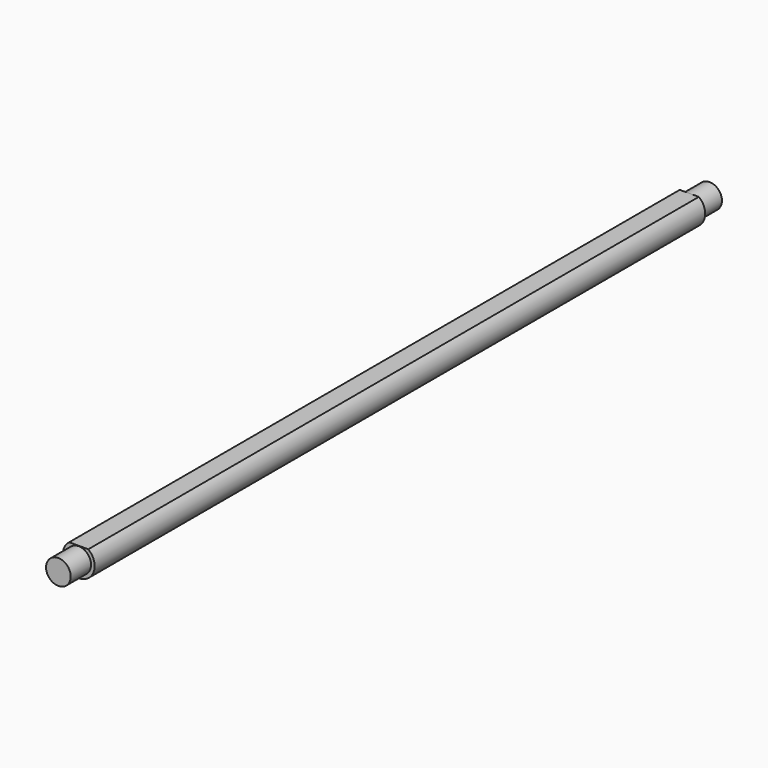
from build123d import *

# Parameters (mm, degrees)
F1_DEPTH = 120
F3_R     = 3.875
F4_DEPTH = 8
F2_R     = 3.875
F5_DEPTH = 8


with BuildPart() as f1:
    # F0 (on Front) → F1 (new body, symmetric)
    with BuildSketch(Plane.XZ):
        with BuildLine():
            Line((3, 4), (-3, 4))
            ThreePointArc((-3, 4), (0, -5), (3, 4))
        make_face()
    extrude(amount=F1_DEPTH, both=True)

    # F3 (on face) → F4 (join)
    with BuildSketch(Plane.XZ.offset(120)):
        Circle(F3_R)
    extrude(amount=F4_DEPTH)

    # F2 (on face) → F5 (join)
    with BuildSketch(Plane(origin=(0, 120, 0), x_dir=(-1, 0, 0), z_dir=(0, 1, 0))):
        Circle(F2_R)
    extrude(amount=F5_DEPTH)


solid = f1.part
